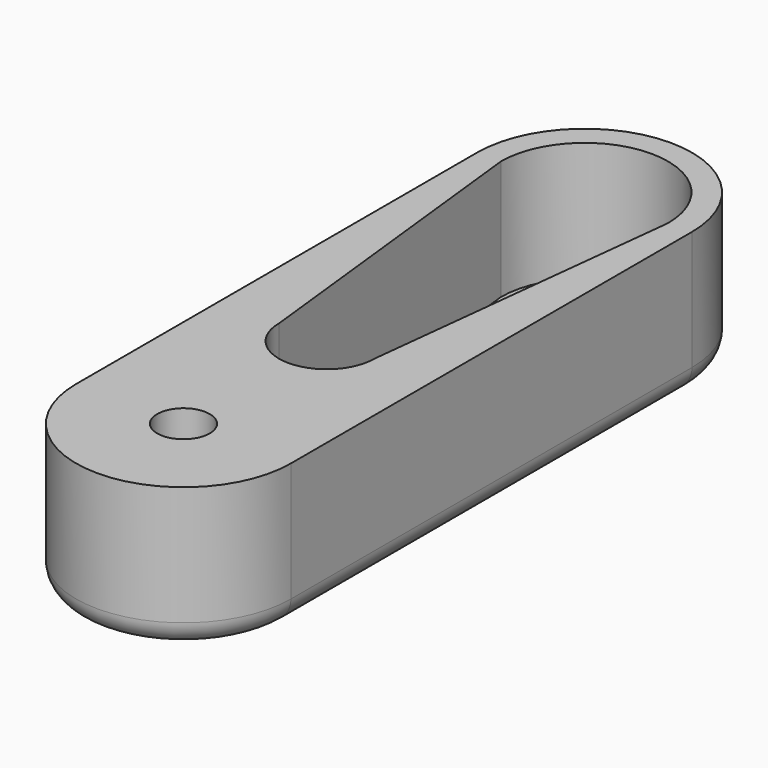
from build123d import *

# Parameters (mm, degrees)
SKETCH_R     = 1.1
PAD_DEPTH    = 6
POCKET_DEPTH = 5
FILLET_R     = 1


with BuildPart() as part:
    # Sketch → Pad (new body)
    with BuildSketch(Plane.XY):
        with BuildLine():
            ThreePointArc((4.5, 10.5), (0, 15), (-4.5, 10.5))
            Line((-4.5, 10.5), (-4.5, -10.5))
            ThreePointArc((-4.5, -10.5), (0, -15), (4.5, -10.5))
            Line((4.5, -10.5), (4.5, 10.5))
        make_face()
        with Locations((0, 10.5)):
            Circle(SKETCH_R, mode=Mode.SUBTRACT)
        with Locations((0, -10.5)):
            Circle(SKETCH_R, mode=Mode.SUBTRACT)
    extrude(amount=PAD_DEPTH)

    # Sketch001 (on Face8 of Pad) → Pocket (cut)
    with BuildSketch(Plane.XY.offset(6)):
        with BuildLine():
            ThreePointArc((3.5, 10.5), (0, 14), (-3.5, 10.5))
            Line((-3.5, 10.5), (-2, -3))
            ThreePointArc((-2, -3), (0, -5), (2, -3))
            Line((3.5, 10.5), (2, -3))
        make_face()
    extrude(amount=-POCKET_DEPTH, mode=Mode.SUBTRACT)

    # Fillet
    fillet_edges = [part.edges().sort_by_distance(p)[0] for p in [
        (4.5, 0, 0),
    ]]
    fillet(fillet_edges, radius=FILLET_R)


solid = part.part
